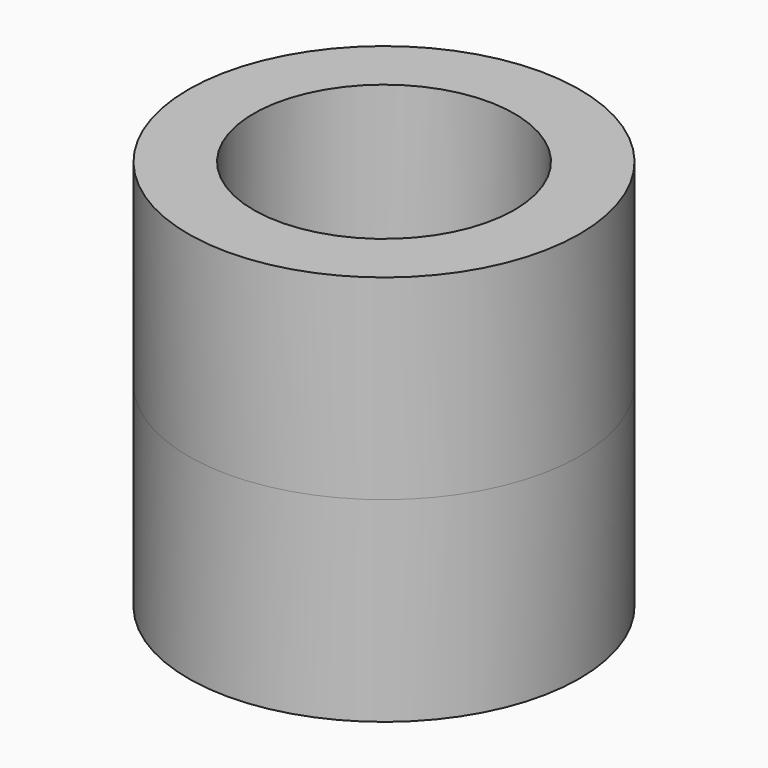
from build123d import *

# Parameters (mm, degrees)
F0_R      = 38.1
F1_DEPTH  = 38.1
F1_FACE_R = 38.1
F2_DEPTH  = 38.1
F3_T      = -12.7


with BuildPart() as f1:
    # F0 (on Top) → F1 (new body)
    with BuildSketch(Plane.XY):
        Circle(F0_R)
    extrude(amount=-F1_DEPTH)

    # F1_face (on face) → F2 (join)
    with BuildSketch(Plane.XY):
        Circle(F1_FACE_R)
    extrude(amount=F2_DEPTH)

    # F3
    f3_openings = [f1.faces().sort_by_distance(p)[0] for p in [
        (0, 0, 38.1),
    ]]
    offset(amount=F3_T, openings=f3_openings)


solid = f1.part
